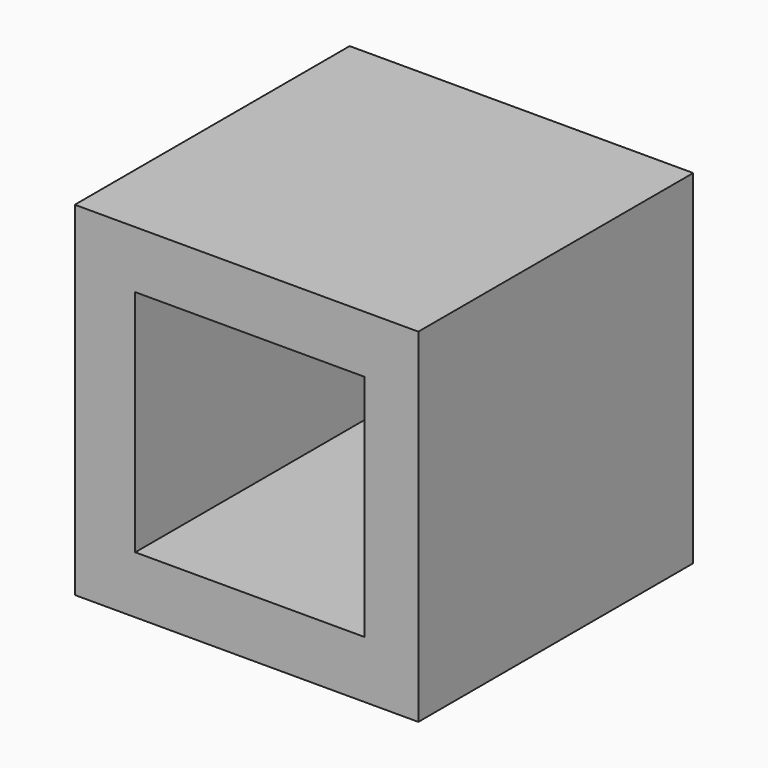
from build123d import *

# Parameters (mm, degrees)
F0_W     = 152.4
F0_H     = 152.4
F1_DEPTH = 152.4
F2_W     = 50.8
F2_H     = 50.8
F3_DEPTH = 152.4


with BuildPart() as f1:
    # F0 (on Top) → F1 (new body)
    with BuildSketch(Plane.XY):
        with Locations((-1.420007, 76.2)):
            Rectangle(F0_W, F0_H)
    extrude(amount=F1_DEPTH)

    # F2 (on face) → F3 (cut)
    with BuildSketch(Plane.XZ):
        with Locations((-25.4, 101.6)):
            Rectangle(F2_W, F2_H)
        with Locations((25.4, 101.6)):
            Rectangle(F2_W, F2_H)
        with Locations((25.4, 50.8)):
            Rectangle(F2_W, F2_H)
        with Locations((-25.4, 50.8)):
            Rectangle(F2_W, F2_H)
    extrude(amount=-F3_DEPTH, mode=Mode.SUBTRACT)


solid = f1.part
